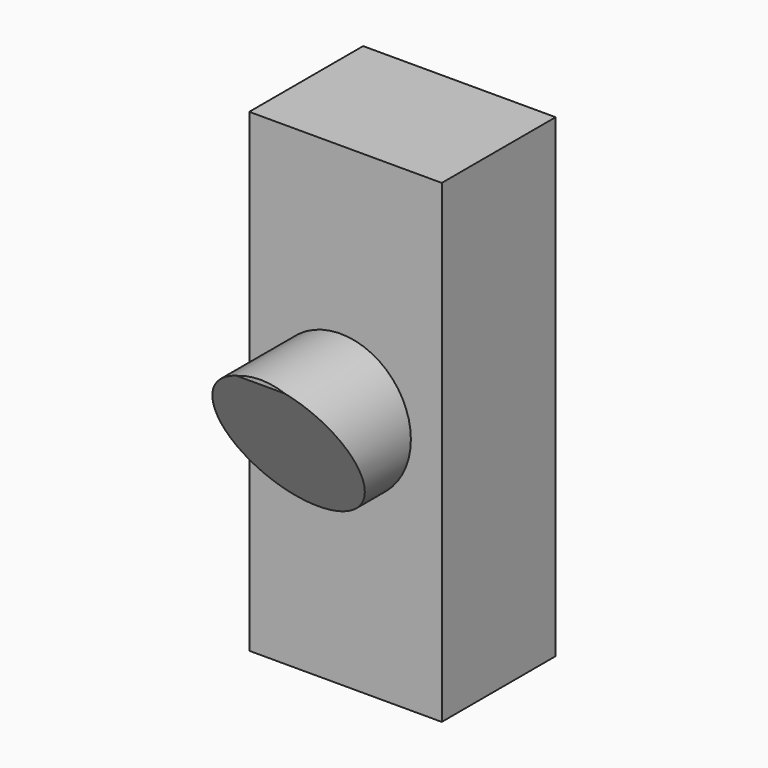
from build123d import *

# Parameters (mm, degrees)
F0_W     = 62.186198
F0_H     = 153.296209
F1_DEPTH = 45.974
F2_R     = 22.70519
F3_DEPTH = 32.258
F5_DEPTH = 24.384


with BuildPart() as f1:
    # F0 (on Front) → F1 (new body)
    with BuildSketch(Plane.XZ):
        with Locations((1.59081, -0.433858)):
            Rectangle(F0_W, F0_H)
    extrude(amount=F1_DEPTH)

    # F2 (on face) → F3 (join)
    with BuildSketch(Plane.XZ.offset(45.974)):
        Circle(F2_R)
    extrude(amount=F3_DEPTH)

    # F4 (on Right) → F5 (cut, symmetric)
    with BuildSketch(Plane.YZ):
        Polygon((-53.611651, -25.310941), (-78.850865, 22.487216), (-78.627512, -25.310941), align=None)
    extrude(amount=F5_DEPTH, both=True, mode=Mode.SUBTRACT)


solid = f1.part
